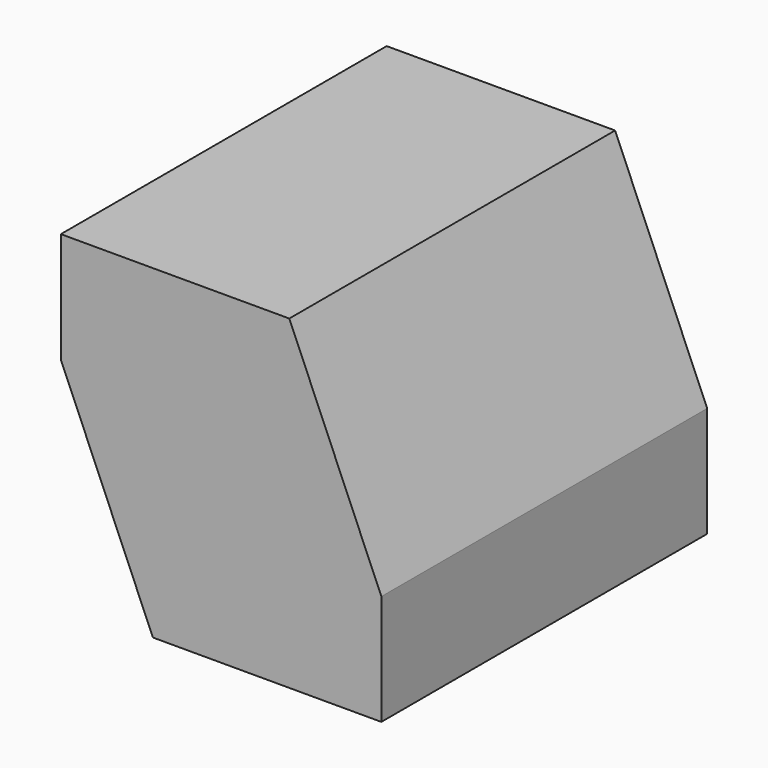
from build123d import *

# Parameters (mm, degrees)
F0_W     = 265.33243
F0_H     = 337.1588
F1_DEPTH = 269.24
F3_DEPTH = 346.71
F5_DEPTH = 110.744


with BuildPart() as f1:
    # F0 (on Top) → F1 (new body)
    with BuildSketch(Plane.XY):
        Rectangle(F0_W, F0_H)
    extrude(amount=F1_DEPTH)

    # F2 (on face) → F3 (cut)
    with BuildSketch(Plane(origin=(0, 168.5794, 0), x_dir=(-1, 0, 0), z_dir=(0, 1, 0))):
        Polygon((-132.666215, 91.44), (-56.466215, 269.24), (-132.666215, 269.24), align=None)
        Polygon((56.466215, 0), (132.666215, 0), (132.666215, 177.8), align=None)
    extrude(amount=-F3_DEPTH, mode=Mode.SUBTRACT)

    # F4 (on face) → F5 (cut)
    with BuildSketch(Plane(origin=(0, 168.5794, 0), x_dir=(-1, 0, 0), z_dir=(0, 1, 0))):
        Polygon((132.666215, 177.8), (132.666215, 206.214771), (44.288456, 0), (56.466215, 0), align=None)
    extrude(amount=-F5_DEPTH, mode=Mode.SUBTRACT)


solid = f1.part
